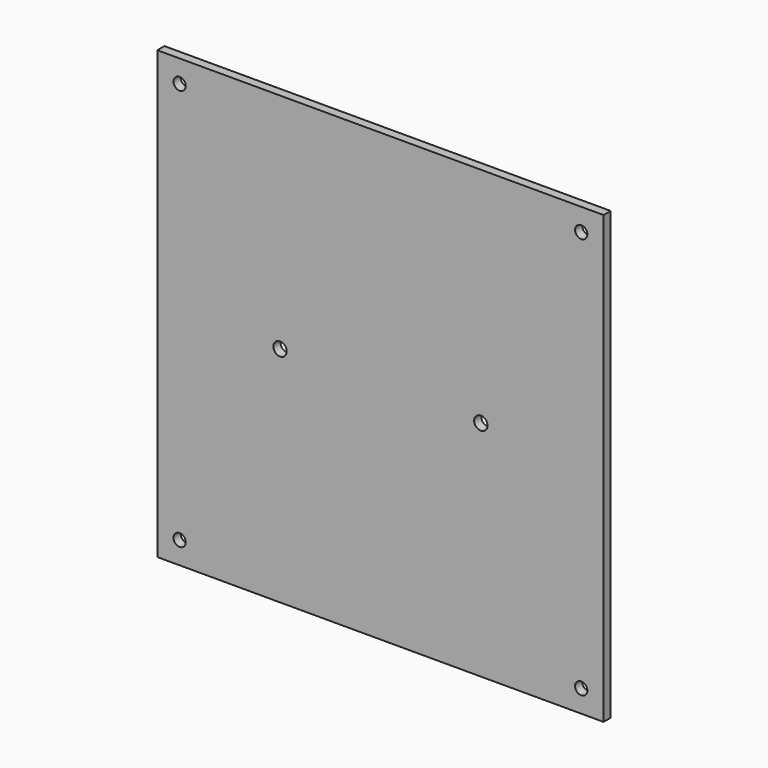
from build123d import *

# Parameters (mm, degrees)
F0_W     = 200
F0_H     = 200
F0_R     = 2.75
F0_R_2   = 3
F1_DEPTH = 4


with BuildPart() as f1:
    # F0 (on Front) → F1 (new body)
    with BuildSketch(Plane.XZ):
        Rectangle(F0_W, F0_H)
        with Locations((-90, -90)):
            Circle(F0_R, mode=Mode.SUBTRACT)
        with Locations((90, -90)):
            Circle(F0_R, mode=Mode.SUBTRACT)
        with Locations((-45, 0)):
            Circle(F0_R_2, mode=Mode.SUBTRACT)
        with Locations((-90, 90)):
            Circle(F0_R, mode=Mode.SUBTRACT)
        with Locations((45, 0)):
            Circle(F0_R_2, mode=Mode.SUBTRACT)
        with Locations((90, 90)):
            Circle(F0_R, mode=Mode.SUBTRACT)
    extrude(amount=F1_DEPTH)


solid = f1.part
